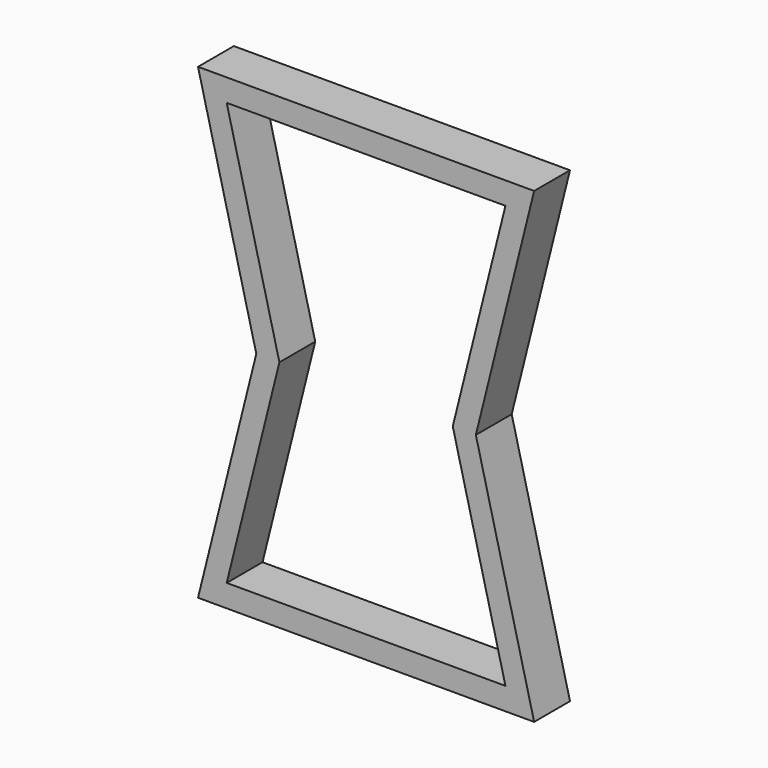
from build123d import *

# Parameters (mm, degrees)
F1_DEPTH = 50.8


with BuildPart() as f1:
    # F0 (on Front) → F1 (new body)
    with BuildSketch(Plane.XZ):
        Polygon((141.320629, 251.620604), (-187.324198, 251.620604), (-180.991267, 226.220604), (134.987698, 226.220604), align=None)
        Polygon((-187.324198, 251.620604), (-213.501784, 251.620604), (-147.445011, -13.318644), (-121.267425, -13.318644), (-180.991267, 226.220604), align=None)
        Polygon((167.498216, 251.620604), (141.320629, 251.620604), (134.987698, 226.220604), (75.263856, -13.318644), (101.441442, -13.318644), align=None)
        Polygon((-180.991267, -252.857892), (-187.324198, -278.257892), (141.320629, -278.257892), (134.987698, -252.857892), align=None)
        Polygon((-121.267425, -13.318644), (-147.445011, -13.318644), (-213.501784, -278.257892), (-187.324198, -278.257892), (-180.991267, -252.857892), align=None)
        Polygon((167.498216, -278.257892), (101.441442, -13.318644), (75.263856, -13.318644), (134.987698, -252.857892), (141.320629, -278.257892), align=None)
    extrude(amount=F1_DEPTH)


solid = f1.part
